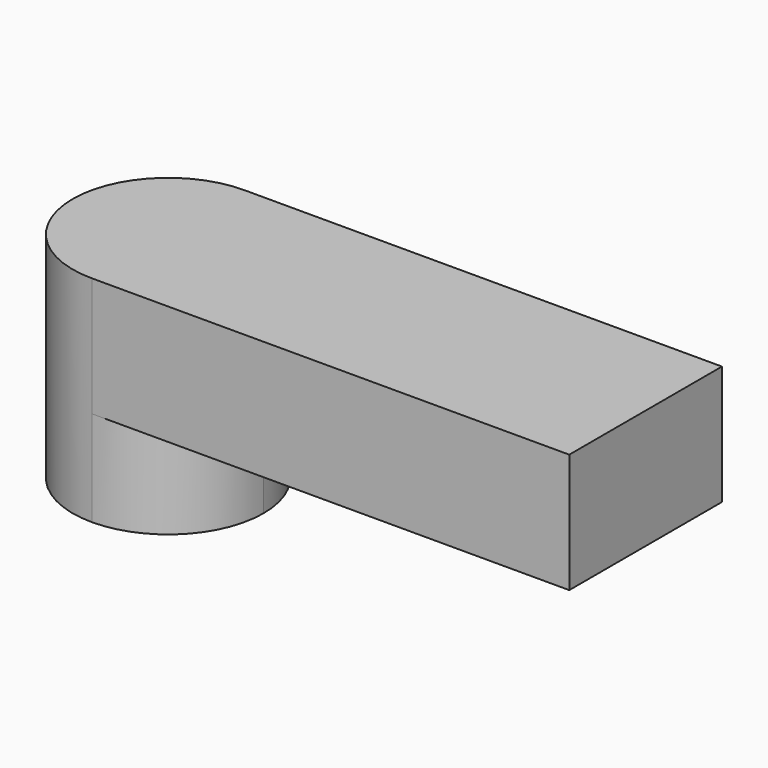
from build123d import *

# Parameters (mm, degrees)
F1_DEPTH = 20
F2_DEPTH = 25


with BuildPart() as f1:
    # F0 (on Top) → F1 (new body)
    with BuildSketch(Plane.XY):
        with BuildLine():
            ThreePointArc((-36.544967, 0.189985), (-22.456499, 6.077043), (-16.62794, 20.189813))
            ThreePointArc((-16.62794, 20.189813), (-22.456499, 34.302583), (-36.544967, 40.189641))
            Line((-36.544967, 40.189641), (-36.544967, 30.189469))
            ThreePointArc((-36.544967, 30.189469), (-29.527597, 27.231484), (-26.62794, 20.189813))
            ThreePointArc((-26.62794, 20.189813), (-29.527597, 13.148142), (-36.544967, 10.190157))
            Line((-36.544967, 10.190157), (-36.544967, 0.189985))
        make_face()
        with BuildLine():
            Line((-36.544967, 30.189469), (-36.544967, 40.189641))
            ThreePointArc((-36.544967, 40.189641), (-56.62794, 20.189813), (-36.544967, 0.189985))
            Line((-36.544967, 0.189985), (-36.544967, 10.190157))
            ThreePointArc((-36.544967, 10.190157), (-46.62794, 20.189813), (-36.544967, 30.189469))
        make_face()
    extrude(amount=-F1_DEPTH)

    # F0 (on Top) → F2 (join)
    with BuildSketch(Plane.XY):
        with BuildLine():
            ThreePointArc((-36.544967, 0.189985), (-22.456499, 6.077043), (-16.62794, 20.189813))
            ThreePointArc((-16.62794, 20.189813), (-22.456499, 34.302583), (-36.544967, 40.189641))
            Line((-36.544967, 40.189641), (-36.544967, 30.189469))
            ThreePointArc((-36.544967, 30.189469), (-29.527597, 27.231484), (-26.62794, 20.189813))
            ThreePointArc((-26.62794, 20.189813), (-29.527597, 13.148142), (-36.544967, 10.190157))
            Line((-36.544967, 10.190157), (-36.544967, 0.189985))
        make_face()
        with BuildLine():
            Line((-36.544967, 30.189469), (-36.544967, 40.189641))
            ThreePointArc((-36.544967, 40.189641), (-56.62794, 20.189813), (-36.544967, 0.189985))
            Line((-36.544967, 0.189985), (-36.544967, 10.190157))
            ThreePointArc((-36.544967, 10.190157), (-46.62794, 20.189813), (-36.544967, 30.189469))
        make_face()
        with BuildLine():
            ThreePointArc((-26.62794, 20.189813), (-29.527597, 27.231484), (-36.544967, 30.189469))
            Line((-36.544967, 30.189469), (-36.544967, 10.190157))
            ThreePointArc((-36.544967, 10.190157), (-29.527597, 13.148142), (-26.62794, 20.189813))
        make_face()
        with BuildLine():
            Line((-36.544967, 10.190157), (-36.544967, 30.189469))
            ThreePointArc((-36.544967, 30.189469), (-46.62794, 20.189813), (-36.544967, 10.190157))
        make_face()
        with BuildLine():
            ThreePointArc((-36.544967, 40.189641), (-22.456499, 34.302583), (-16.62794, 20.189813))
            ThreePointArc((-16.62794, 20.189813), (-22.456499, 6.077043), (-36.544967, 0.189985))
            Line((-36.544967, 0.189985), (-36.544967, 0.189641))
            Line((-36.544967, 0.189641), (63.455033, 0.189641))
            Line((63.455033, 0.189641), (63.455033, 40.189641))
            Line((63.455033, 40.189641), (-36.544967, 40.189641))
        make_face()
    extrude(amount=F2_DEPTH)


solid = f1.part
